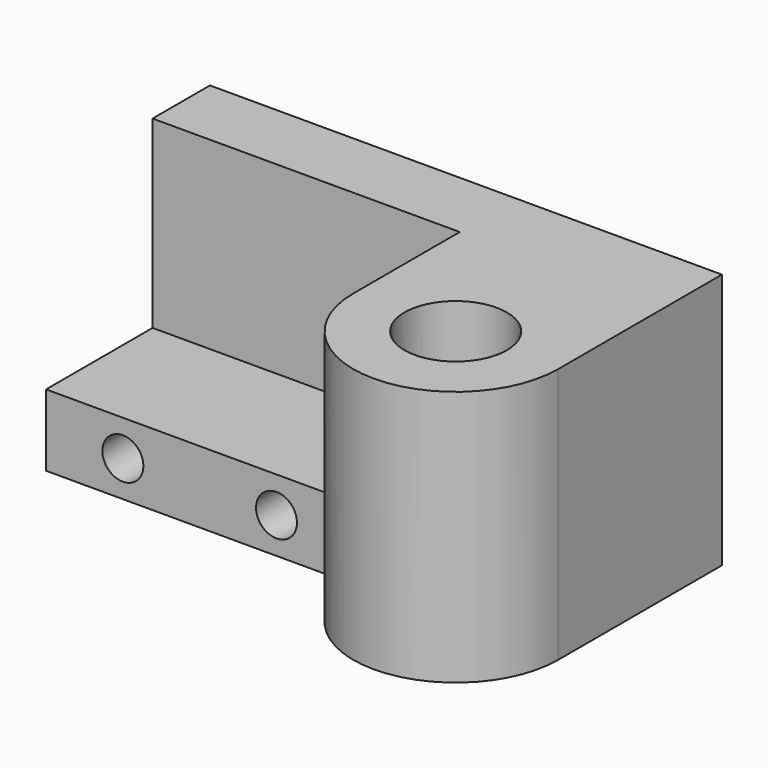
from build123d import *

# Parameters (mm, degrees)
F0_R     = 25
F1_DEPTH = 125
F0_W     = 150
F0_H     = 65
F2_DEPTH = 35
F3_R     = 10
F4_DEPTH = 100.001


with BuildPart() as f1:
    # F0 (on Top) → F1 (new body)
    with BuildSketch(Plane.XY):
        with BuildLine():
            Line((125, 0), (-125, 0))
            Line((-125, 0), (-125, -35))
            Line((-125, -35), (25, -35))
            Line((25, -35), (25, -100))
            ThreePointArc((25, -100), (75, -150), (125, -100))
            Line((125, -100), (125, 0))
        make_face()
        with Locations((75, -100)):
            Circle(F0_R, mode=Mode.SUBTRACT)
    extrude(amount=F1_DEPTH)

    # F0 (on Top) → F2 (join)
    with BuildSketch(Plane.XY):
        with Locations((-50, -67.5)):
            Rectangle(F0_W, F0_H)
    extrude(amount=F2_DEPTH)

    # F3 (on face) → F4 (cut, through all)
    with BuildSketch(Plane.XZ.offset(100)):
        with Locations((-87.5, 17.5)):
            Circle(F3_R)
        with Locations((-12.5, 17.5)):
            Circle(F3_R)
    extrude(amount=-F4_DEPTH, mode=Mode.SUBTRACT)


solid = f1.part
